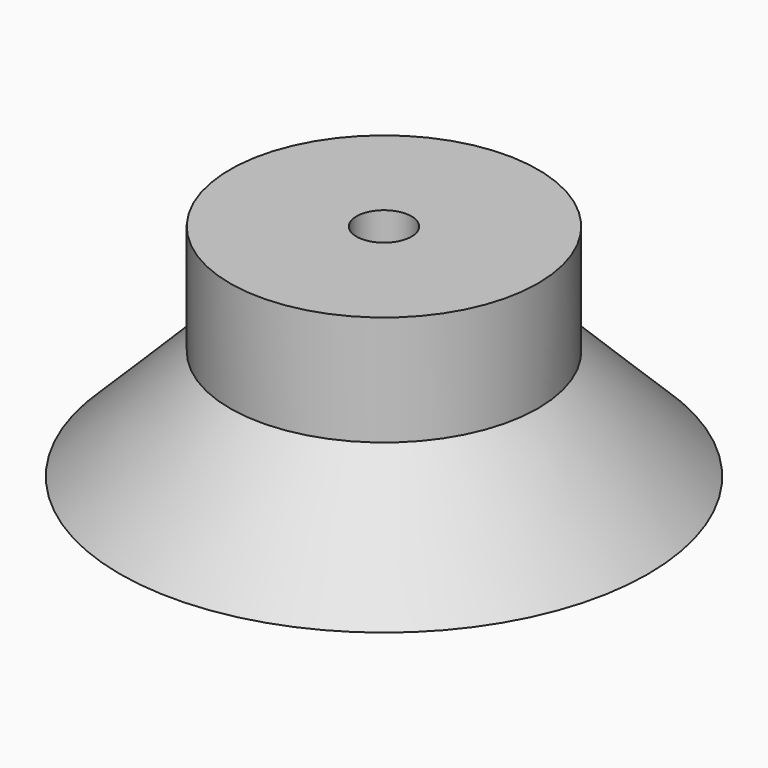
from build123d import *

# Parameters (mm, degrees)
CYLINDER004_R       = 2.5
CYLINDER004_DEPTH   = 20
CYLINDER003_R       = 14
CYLINDER003_DEPTH   = 10
CUT_PLACEMENT_ANGLE = 180


with BuildPart() as cylinder001:
    # Cylinder004 → Cylinder004 (new body)
    with BuildSketch(Plane.XY):
        Circle(CYLINDER004_R)
    extrude(amount=CYLINDER004_DEPTH)


with BuildPart() as cone:
    # Cone → Cone (revolve)
    with BuildSketch(Plane(origin=(0, 0, 10), x_dir=(1, 0, 0), z_dir=(0, -1, 0))):
        Polygon((0, 0), (14, 0), (24, 10), (0, 10), align=None)
    revolve(axis=Axis((0, 0, 10), (0, 0, 1)))


with BuildPart() as obj1:
    # Cylinder003 → Cylinder003 (new body)
    with BuildSketch(Plane.XY):
        Circle(CYLINDER003_R)
    extrude(amount=CYLINDER003_DEPTH)

    # Fusion004: union Cone
    add(cone.part)

    # Cut: cut Cylinder001
    add(cylinder001.part, mode=Mode.SUBTRACT)


with BuildPart() as obj1_1:
    # Cut placement: moved
    add(obj1.part.moved(Location((22, 22, -50))).rotate(Axis((22, 22, -50), (1, 0, 0)), CUT_PLACEMENT_ANGLE))


solid = obj1_1.part
